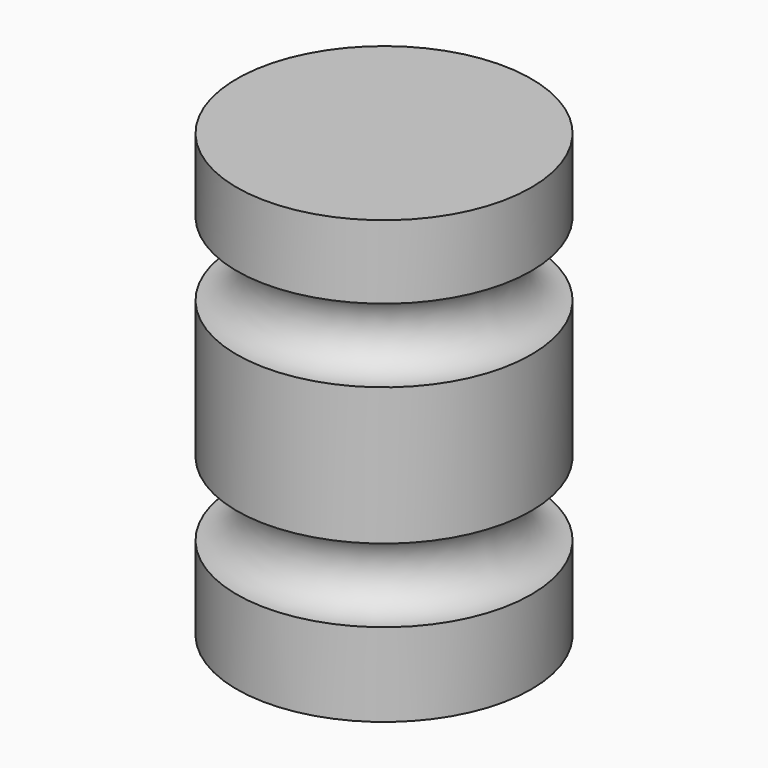
from build123d import *


with BuildPart() as f1:
    # F0 (on Front) → F1 (revolve)
    with BuildSketch(Plane.XZ):
        with BuildLine():
            Line((-25.4, 0), (0, 0))
            Line((0, 0), (0, 14.392023))
            ThreePointArc((0, 14.392023), (-6.35, 20.742023), (0, 27.092023))
            Line((0, 27.092023), (0, 50.820668))
            ThreePointArc((0, 50.820668), (-6.35, 57.170668), (0, 63.520668))
            Line((0, 63.520668), (0, 76.2))
            Line((0, 76.2), (-25.4, 76.2))
            Line((-25.4, 76.2), (-25.4, 0))
        make_face()
    revolve(axis=Axis((-25.4, 0, 38.1), (0, 0, 1)))


solid = f1.part
